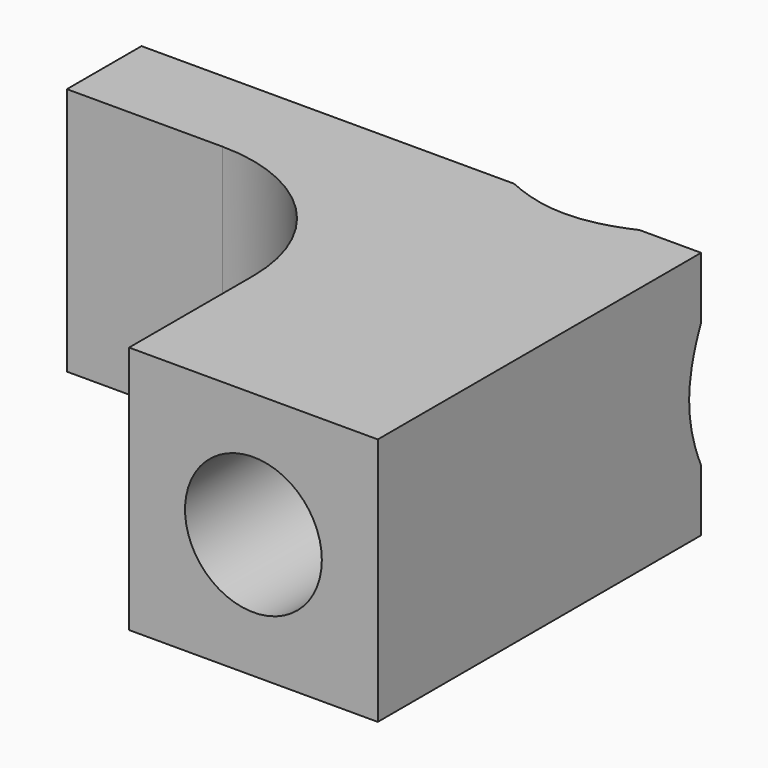
from build123d import *

# Parameters (mm, degrees)
F1_DEPTH       = 8
F3_D           = 4.4
F3_CSINK_D     = 8.96
F3_CSINK_ANGLE = 90


with BuildPart() as f1:
    # F0 (on Top) → F1 (new body)
    with BuildSketch(Plane.XY):
        with BuildLine():
            Line((-10, 0), (-5, 0))
            ThreePointArc((-5, 0), (-1.4644660941, -1.4644660941), (0, -5))
            Line((0, -5), (0, -10))
            Line((0, -10), (8, -10))
            Line((8, -10), (8, 3))
            Line((8, 3), (-10, 3))
            Line((-10, 3), (-10, 0))
        make_face()
    extrude(amount=F1_DEPTH)

    # F3 (through all)
    with Locations(Plane(origin=(0, 3, 0), x_dir=(-1, 0, 0), z_dir=(0, 1, 0))):
        with Locations((-4, 4)):
            CounterSinkHole(F3_D / 2, F3_CSINK_D / 2, counter_sink_angle=F3_CSINK_ANGLE)


solid = f1.part
